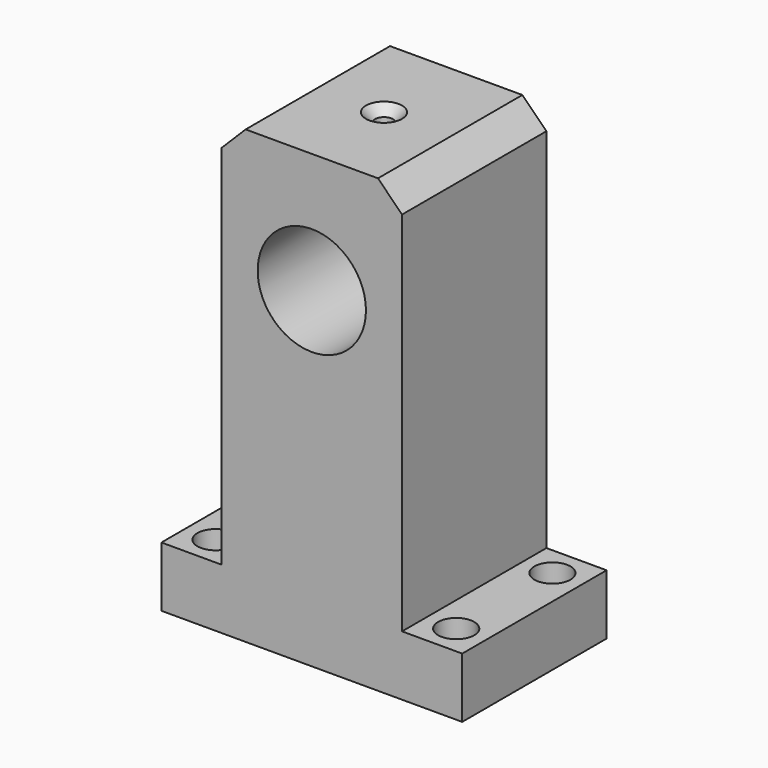
from build123d import *

# Parameters (mm, degrees)
F0_R           = 9
F1_DEPTH       = 15
F1_DEPTH_BACK  = 15
F3_D           = 3
F3_DEPTH       = 20
F3_CSINK_D     = 6
F3_CSINK_ANGLE = 90
F4_R           = 3
F5_DEPTH       = 10
F6_SIZE        = 4


with BuildPart() as f1:
    # F0 (on Front) → F1 (new body, two sides)
    with BuildSketch(Plane.XZ) as f1_sk:
        Polygon((0, 10), (0, 0), (50, 0), (50, 10), (40, 10), (40, 75), (10, 75), (10, 10), align=None)
        with Locations((25, 55)):
            Circle(F0_R, mode=Mode.SUBTRACT)
    extrude(amount=F1_DEPTH)
    extrude(f1_sk.sketch, amount=-F1_DEPTH_BACK)

    # F3
    with Locations(Plane.XY.offset(75)):
        with Locations((25, 0)):
            CounterSinkHole(F3_D / 2, F3_CSINK_D / 2, depth=F3_DEPTH, counter_sink_angle=F3_CSINK_ANGLE)

    # F4 (on face) → F5 (cut)
    with BuildSketch(Plane.XY.offset(10)):
        with Locations((5, 10)):
            Circle(F4_R)
        with Locations((5, -10)):
            Circle(F4_R)
        with Locations((45, -10)):
            Circle(F4_R)
        with Locations((45, 10)):
            Circle(F4_R)
    extrude(amount=-F5_DEPTH, mode=Mode.SUBTRACT)

    # F6
    f6_edges = [f1.edges().sort_by_distance(p)[0] for p in [
        (40, 0, 75),
        (10, 0, 75),
    ]]
    chamfer(f6_edges, length=F6_SIZE)


solid = f1.part
